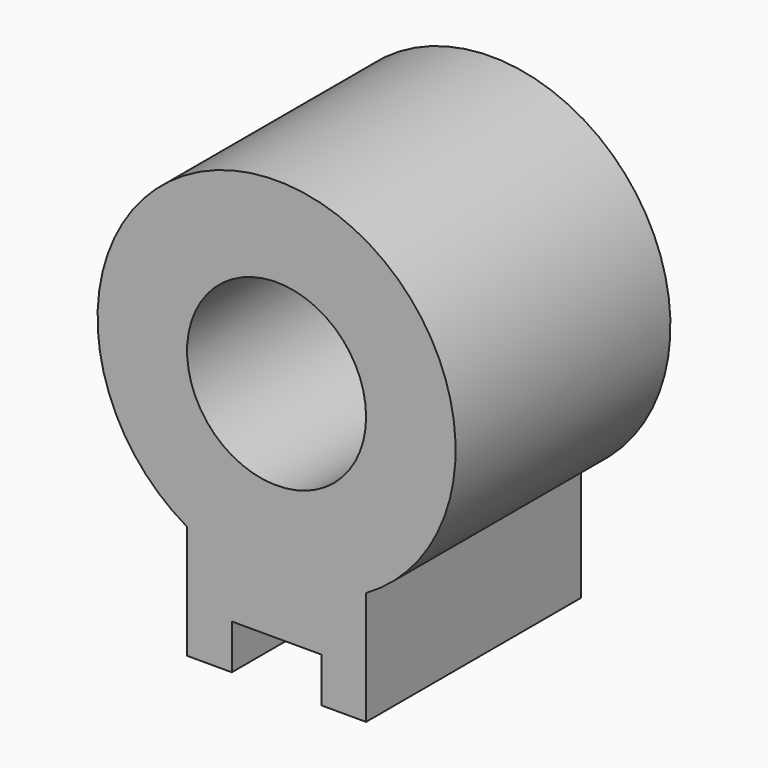
from build123d import *

# Parameters (mm, degrees)
F0_R     = 20
F1_DEPTH = 60


with BuildPart() as f1:
    # F0 (on Front) → F1 (new body)
    with BuildSketch(Plane.XZ):
        with BuildLine():
            Line((-51.450498, -23.447088), (-51.450498, -43.447088))
            Line((-51.450498, -43.447088), (-41.450498, -43.447088))
            Line((-41.450498, -43.447088), (-41.450498, -33.447088))
            Line((-41.450498, -33.447088), (-21.450498, -33.447088))
            Line((-21.450498, -33.447088), (-21.450498, -43.447088))
            Line((-21.450498, -43.447088), (-11.450498, -43.447088))
            Line((-11.450498, -43.447088), (-11.450498, -23.447088))
            Line((-11.450498, -23.447088), (-11.450498, -18.088088))
            ThreePointArc((-11.450498, -18.088088), (-31.450498, 56.552928), (-51.450498, -18.088088))
            Line((-51.450498, -18.088088), (-51.450498, -23.447088))
        make_face()
        with Locations((-31.450498, 16.552928)):
            Circle(F0_R, mode=Mode.SUBTRACT)
    extrude(amount=F1_DEPTH)


solid = f1.part
